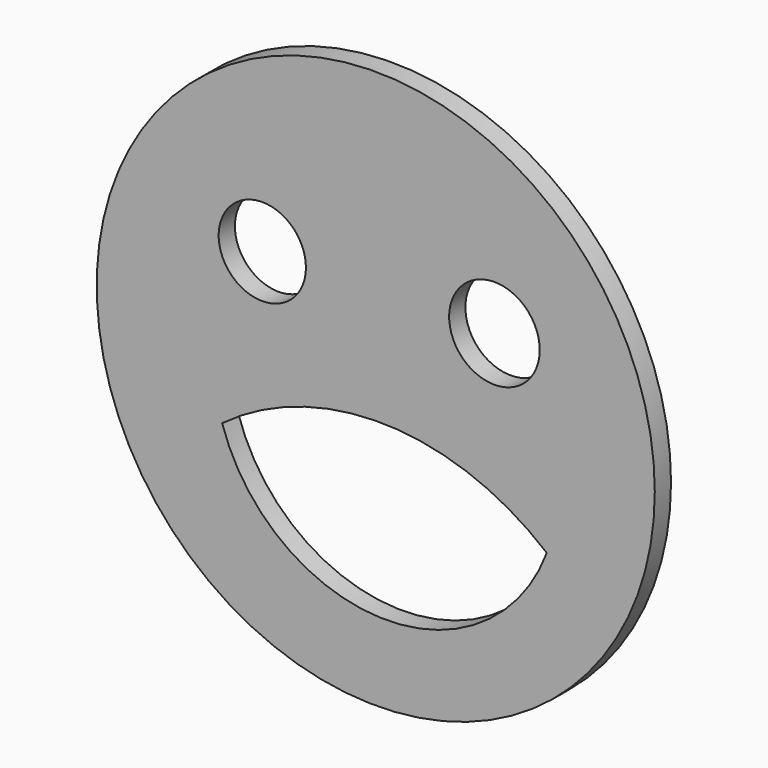
from build123d import *

# Parameters (mm, degrees)
F0_R     = 43.658172
F0_R_2   = 6.826792
F0_R_3   = 7.084093
F1_DEPTH = 3.175


with BuildPart() as f1:
    # F0 (on Front) → F1 (new body)
    with BuildSketch(Plane.XZ):
        Circle(F0_R)
        with BuildLine():
            ThreePointArc((26.761023, -13.926655), (0.879541, -31.316371), (-24.030307, -12.561298))
            ThreePointArc((-24.030307, -12.561298), (1.602106, -4.436943), (26.761023, -13.926655))
        make_face(mode=Mode.SUBTRACT)
        with Locations((-17.749658, 13.107441)):
            Circle(F0_R_2, mode=Mode.SUBTRACT)
        with Locations((18.568873, 13.653585)):
            Circle(F0_R_3, mode=Mode.SUBTRACT)
    extrude(amount=F1_DEPTH)


solid = f1.part
